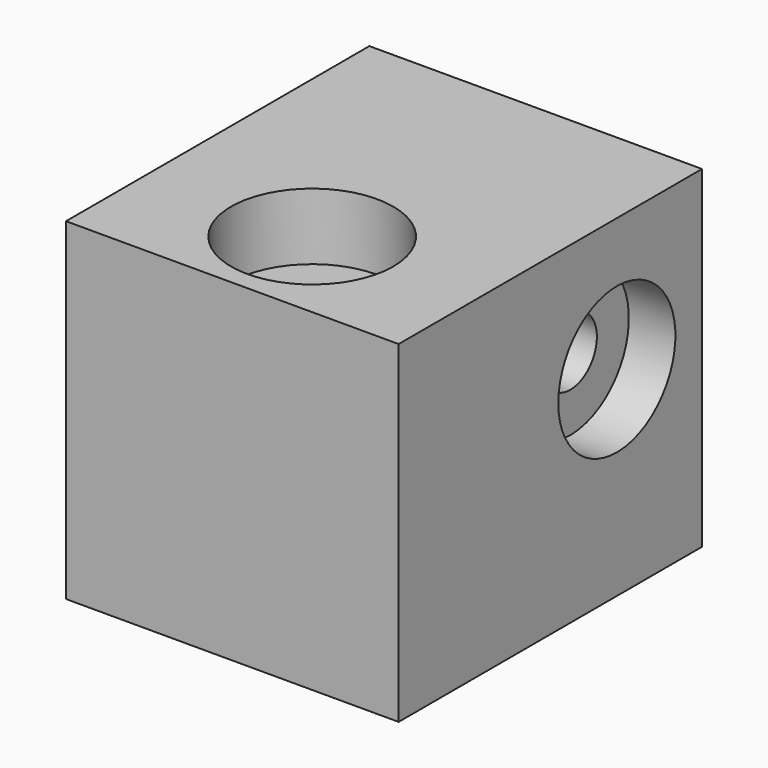
from build123d import *

# Parameters (mm, degrees)
F0_W     = 50
F0_H     = 57
F1_DEPTH = 50
F2_R     = 5
F3_DEPTH = 50.001
F4_R     = 5
F5_DEPTH = 50.001
F4_R_2   = 11
F6_DEPTH = 8
F7_START = -43
F7_DEPTH = 7
F2_R_2   = 12.1936245424
F8_DEPTH = 10


with BuildPart() as f1:
    # F0 (on Top) → F1 (new body)
    with BuildSketch(Plane.XY):
        with Locations((25, 28.5)):
            Rectangle(F0_W, F0_H)
    extrude(amount=F1_DEPTH)

    # F2 (on face) → F3 (cut, through all)
    with BuildSketch(Plane.XY.offset(50)):
        with Locations((25, 15)):
            Circle(F2_R)
    extrude(amount=-F3_DEPTH, mode=Mode.SUBTRACT)

    # F4 (on face) → F5 (cut, through all)
    with BuildSketch(Plane(origin=(0, 0, 0), x_dir=(0, -1, 0), z_dir=(-1, 0, 0))):
        with Locations((-41, 30)):
            Circle(F4_R)
    extrude(amount=-F5_DEPTH, mode=Mode.SUBTRACT)

    # F4 (on face) → F6 (cut)
    with BuildSketch(Plane(origin=(0, 0, 0), x_dir=(0, -1, 0), z_dir=(-1, 0, 0))):
        with Locations((-41, 30)):
            Circle(F4_R_2)
        with Locations((-41, 30)):
            Circle(F4_R, mode=Mode.SUBTRACT)
    extrude(amount=-F6_DEPTH, mode=Mode.SUBTRACT)

    # F4 (on face) → F7 (cut)
    with BuildSketch(Plane(origin=(0, 0, 0), x_dir=(0, -1, 0), z_dir=(-1, 0, 0)).offset(F7_START)):
        with Locations((-41, 30)):
            Circle(F4_R_2)
        with Locations((-41, 30)):
            Circle(F4_R, mode=Mode.SUBTRACT)
    extrude(amount=-F7_DEPTH, mode=Mode.SUBTRACT)

    # F2 (on face) → F8 (cut)
    with BuildSketch(Plane.XY.offset(50)):
        with Locations((25, 15)):
            Circle(F2_R_2)
        with Locations((25, 15)):
            Circle(F2_R, mode=Mode.SUBTRACT)
    extrude(amount=-F8_DEPTH, mode=Mode.SUBTRACT)


solid = f1.part
